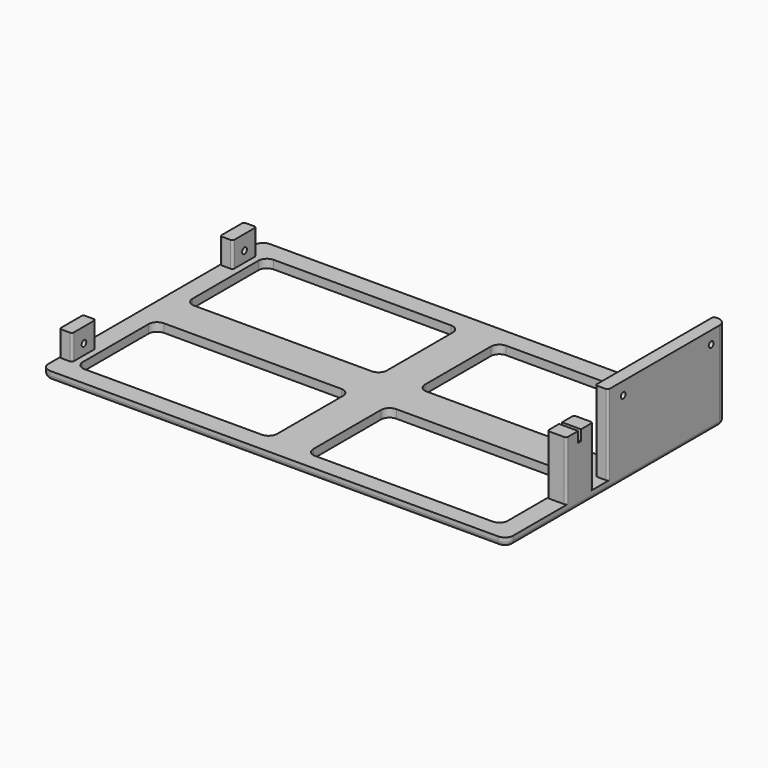
from build123d import *

# Parameters (mm, degrees)
PAD_DEPTH       = 4
PAD001_DEPTH    = 38
SKETCH007_R     = 1.4
POCKET_DEPTH    = 8
PAD002_DEPTH    = 12
SKETCH009_R     = 1.4
POCKET001_DEPTH = 8
PAD003_DEPTH    = 28
SKETCH011_W     = 9
SKETCH011_H     = 1.7
POCKET002_DEPTH = 5
FILLET_R        = 2


with BuildPart() as part:
    # Sketch → Pad (new body)
    with BuildSketch(Plane.XY):
        with BuildLine():
            Line((-106, 65), (106, 65))
            ThreePointArc((110, 61), (108.828427, 63.828427), (106, 65))
            Line((110, 61), (110, -61))
            ThreePointArc((106, -65), (108.828427, -63.828427), (110, -61))
            Line((106, -65), (-106, -65))
            ThreePointArc((-110, -61), (-108.828427, -63.828427), (-106, -65))
            Line((-110, -61), (-110, 61))
            ThreePointArc((-106, 65), (-108.828427, 63.828427), (-110, 61))
        make_face()
        with BuildLine():
            ThreePointArc((13, -9), (10.171573, -10.171573), (9, -13))
            Line((9, -53), (9, -13))
            ThreePointArc((9, -53), (10.171573, -55.828427), (13, -57))
            Line((97, -57), (13, -57))
            ThreePointArc((97, -57), (99.828427, -55.828427), (101, -53))
            Line((101, -13), (101, -53))
            ThreePointArc((101, -13), (99.828427, -10.171573), (97, -9))
            Line((13, -9), (97, -9))
        make_face(mode=Mode.SUBTRACT)
        with BuildLine():
            ThreePointArc((13, 56), (10.171573, 54.828427), (9, 52))
            Line((9, 13), (9, 52))
            ThreePointArc((9, 13), (10.171573, 10.171573), (13, 9))
            Line((97, 9), (13, 9))
            ThreePointArc((97, 9), (99.828427, 10.171573), (101, 13))
            Line((101, 52), (101, 13))
            ThreePointArc((101, 52), (99.828427, 54.828427), (97, 56))
            Line((13, 56), (97, 56))
        make_face(mode=Mode.SUBTRACT)
        with BuildLine():
            ThreePointArc((-97, 56), (-99.828427, 54.828427), (-101, 52))
            Line((-101, 13), (-101, 52))
            ThreePointArc((-101, 13), (-99.828427, 10.171573), (-97, 9))
            Line((-13, 9), (-97, 9))
            ThreePointArc((-13, 9), (-10.171573, 10.171573), (-9, 13))
            Line((-9, 52), (-9, 13))
            ThreePointArc((-9, 52), (-10.171573, 54.828427), (-13, 56))
            Line((-97, 56), (-13, 56))
        make_face(mode=Mode.SUBTRACT)
        with BuildLine():
            ThreePointArc((-97, -9), (-99.828427, -10.171573), (-101, -13))
            Line((-101, -52), (-101, -13))
            ThreePointArc((-101, -52), (-99.828427, -54.828427), (-97, -56))
            Line((-13, -56), (-97, -56))
            ThreePointArc((-13, -56), (-10.171573, -54.828427), (-9, -52))
            Line((-9, -13), (-9, -52))
            ThreePointArc((-9, -13), (-10.171573, -10.171573), (-13, -9))
            Line((-97, -9), (-13, -9))
        make_face(mode=Mode.SUBTRACT)
    extrude(amount=PAD_DEPTH)

    # Sketch006 (on Face42 of Pad) → Pad001 (join)
    with BuildSketch(Plane.XY.offset(4)):
        with BuildLine():
            ThreePointArc((105, 65), (104.292893, 64.707107), (104, 64))
            Line((104, -4), (104, 64))
            ThreePointArc((104, -4), (104.292893, -4.707107), (105, -5))
            Line((109, -5), (105, -5))
            ThreePointArc((109, -5), (109.707107, -4.707107), (110, -4))
            Line((110, 61), (110, -4))
            ThreePointArc((110, 61), (108.828427, 63.828427), (106, 65))
            Line((105, 65), (106, 65))
        make_face()
    extrude(amount=PAD001_DEPTH)

    # Sketch007 (on Face50 of Pad001) → Pocket (cut)
    with BuildSketch(Plane.YZ.offset(110)):
        with Locations((56, 36)):
            Circle(SKETCH007_R)
        with Locations((4, 36)):
            Circle(SKETCH007_R)
    extrude(amount=-POCKET_DEPTH, mode=Mode.SUBTRACT)

    # Sketch008 (on Face5 of Pocket) → Pad002 (join)
    with BuildSketch(Plane.XY.offset(4)):
        with BuildLine():
            ThreePointArc((-109, 54.5), (-109.707107, 54.207107), (-110, 53.5))
            Line((-110, 41.5), (-110, 53.5))
            ThreePointArc((-110, 41.5), (-109.707107, 40.792893), (-109, 40.5))
            Line((-105, 40.5), (-109, 40.5))
            ThreePointArc((-105, 40.5), (-104.292893, 40.792893), (-104, 41.5))
            Line((-104, 53.5), (-104, 41.5))
            ThreePointArc((-104, 53.5), (-104.292893, 54.207107), (-105, 54.5))
            Line((-109, 54.5), (-105, 54.5))
        make_face()
        with BuildLine():
            ThreePointArc((-109, -40.5), (-109.707107, -40.792893), (-110, -41.5))
            Line((-110, -53.5), (-110, -41.5))
            ThreePointArc((-110, -53.5), (-109.707107, -54.207107), (-109, -54.5))
            Line((-105, -54.5), (-109, -54.5))
            ThreePointArc((-105, -54.5), (-104.292893, -54.207107), (-104, -53.5))
            Line((-104, -41.5), (-104, -53.5))
            ThreePointArc((-104, -41.5), (-104.292893, -40.792893), (-105, -40.5))
            Line((-109, -40.5), (-105, -40.5))
        make_face()
    extrude(amount=PAD002_DEPTH)

    # Sketch009 (on Face7 of Pad002) → Pocket001 (cut)
    with BuildSketch(Plane(origin=(-110, 0, 0), x_dir=(0, -1, 0), z_dir=(-1, 0, 0))):
        with Locations((-47.5, 9)):
            Circle(SKETCH009_R)
        with Locations((47.5, 9)):
            Circle(SKETCH009_R)
    extrude(amount=-POCKET001_DEPTH, mode=Mode.SUBTRACT)

    # Sketch010 (on Face5 of Pocket001) → Pad003 (join)
    with BuildSketch(Plane.XY.offset(4)):
        with BuildLine():
            ThreePointArc((102, -13.95), (101.292893, -14.242893), (101, -14.95))
            Line((101, -28.65), (101, -14.95))
            ThreePointArc((101, -28.65), (101.292893, -29.357107), (102, -29.65))
            Line((109, -29.65), (102, -29.65))
            ThreePointArc((109, -29.65), (109.707107, -29.357107), (110, -28.65))
            Line((110, -14.95), (110, -28.65))
            ThreePointArc((110, -14.95), (109.707107, -14.242893), (109, -13.95))
            Line((102, -13.95), (109, -13.95))
        make_face()
    extrude(amount=PAD003_DEPTH)

    # Sketch011 (on Face82 of Pad003) → Pocket002 (cut)
    with BuildSketch(Plane.XY.offset(32)):
        with Locations((105.5, -21.8)):
            Rectangle(SKETCH011_W, SKETCH011_H)
    extrude(amount=-POCKET002_DEPTH, mode=Mode.SUBTRACT)

    # Fillet
    fillet_edges = [part.edges().sort_by_distance(p)[0] for p in [
        (0, 65, 0),
    ]]
    fillet(fillet_edges, radius=FILLET_R)


solid = part.part
